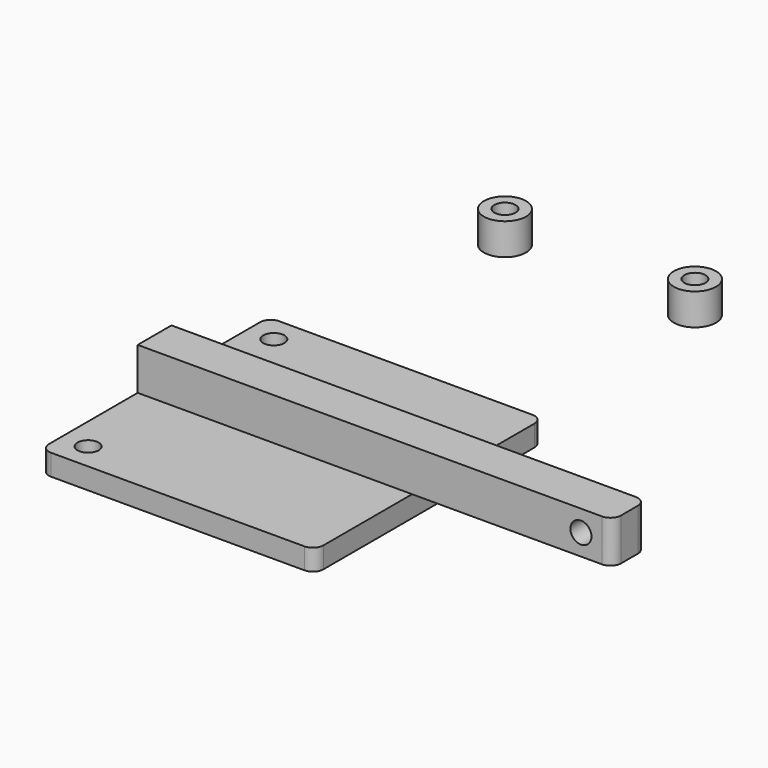
from build123d import *

# Parameters (mm, degrees)
CYLINDER003_R          = 1
CYLINDER003_DEPTH      = 3
CYLINDER002_R          = 2
CYLINDER002_DEPTH      = 3
CYLINDER004_R          = 1
CYLINDER004_DEPTH      = 3
CYLINDER005_R          = 2
CYLINDER005_DEPTH      = 3
CYLINDER001_R          = 1
CYLINDER001_DEPTH      = 2
CYLINDER_R             = 1
CYLINDER_DEPTH         = 2
BOX_W                  = 26
BOX_H                  = 27
BOX_DEPTH              = 2
FILLET001_R            = 1
CYLINDER006_R          = 1
CYLINDER006_DEPTH      = 4
CYLINDER006_ROLL_ANGLE = 90
BOX001_W               = 45
BOX001_H               = 4
BOX001_DEPTH           = 4
FILLET_R               = 1


with BuildPart() as cylinder003:
    # Cylinder003 → Cylinder003 (new body)
    with BuildSketch(Plane(origin=(4, 50, 0), x_dir=(1, 0, 0), z_dir=(0, 0, 1))):
        Circle(CYLINDER003_R)
    extrude(amount=CYLINDER003_DEPTH)


with BuildPart() as cut002:
    # Cylinder002 → Cylinder002 (new body)
    with BuildSketch(Plane(origin=(4, 50, 0), x_dir=(1, 0, 0), z_dir=(0, 0, 1))):
        Circle(CYLINDER002_R)
    extrude(amount=CYLINDER002_DEPTH)

    # Cut002: cut Cylinder003
    add(cylinder003.part, mode=Mode.SUBTRACT)


with BuildPart() as cylinder004:
    # Cylinder004 → Cylinder004 (new body)
    with BuildSketch(Plane(origin=(4, 50, 0), x_dir=(1, 0, 0), z_dir=(0, 0, 1))):
        Circle(CYLINDER004_R)
    extrude(amount=CYLINDER004_DEPTH)


with BuildPart() as cut003:
    # Cylinder005 → Cylinder005 (new body)
    with BuildSketch(Plane(origin=(4, 50, 0), x_dir=(1, 0, 0), z_dir=(0, 0, 1))):
        Circle(CYLINDER005_R)
    extrude(amount=CYLINDER005_DEPTH)

    # Cut003: cut Cylinder004
    add(cylinder004.part, mode=Mode.SUBTRACT)


with BuildPart() as cut003_1:
    # Cut003 placement: moved
    add(cut003.part.moved(Location((18, 0, 0))))


with BuildPart() as cylinder001:
    # Cylinder001 → Cylinder001 (new body)
    with BuildSketch(Plane(origin=(2.5, 24.5, 0), x_dir=(1, 0, 0), z_dir=(0, 0, 1))):
        Circle(CYLINDER001_R)
    extrude(amount=CYLINDER001_DEPTH)


with BuildPart() as cylinder:
    # Cylinder → Cylinder (new body)
    with BuildSketch(Plane(origin=(2.5, 2.5, 0), x_dir=(1, 0, 0), z_dir=(0, 0, 1))):
        Circle(CYLINDER_R)
    extrude(amount=CYLINDER_DEPTH)


with BuildPart() as fillet001:
    # Box → Box (new body)
    with BuildSketch(Plane.XY):
        with Locations((13, 13.5)):
            Rectangle(BOX_W, BOX_H)
    extrude(amount=BOX_DEPTH)

    # Cut: cut Cylinder
    add(cylinder.part, mode=Mode.SUBTRACT)

    # Cut001: cut Cylinder001
    add(cylinder001.part, mode=Mode.SUBTRACT)

    # Fillet001
    fillet001_edges = [fillet001.edges().sort_by_distance(p)[0] for p in [
        (0, 0, 1),
        (0, 27, 1),
        (26, 0, 1),
        (26, 27, 1),
    ]]
    fillet(fillet001_edges, radius=FILLET001_R)


with BuildPart() as cylinder006:
    # Cylinder006 → Cylinder006 (new body)
    with BuildSketch(Plane.XY):
        Circle(CYLINDER006_R)
    extrude(amount=CYLINDER006_DEPTH)


with BuildPart() as cylinder006_1:
    # Cylinder006 roll: moved
    add(cylinder006.part.rotate(Axis((0, 0, 0), (1, 0, 0)), CYLINDER006_ROLL_ANGLE))


with BuildPart() as cylinder006_2:
    # Cylinder006 placement: moved
    add(cylinder006_1.part.moved(Location((42, 15.5, 4))))


with BuildPart() as cut004:
    # Box001 → Box001 (new body)
    with BuildSketch(Plane(origin=(0, 11.5, 2), x_dir=(1, 0, 0), z_dir=(0, 0, 1))):
        with Locations((22.5, 2)):
            Rectangle(BOX001_W, BOX001_H)
    extrude(amount=BOX001_DEPTH)

    # Fillet
    fillet_edges = [cut004.edges().sort_by_distance(p)[0] for p in [
        (45, 11.5, 4),
        (45, 15.5, 4),
    ]]
    fillet(fillet_edges, radius=FILLET_R)

    # Cut004: cut Cylinder006
    add(cylinder006_2.part, mode=Mode.SUBTRACT)


solid = Compound([cut002.part, cut003_1.part, fillet001.part, cut004.part])
